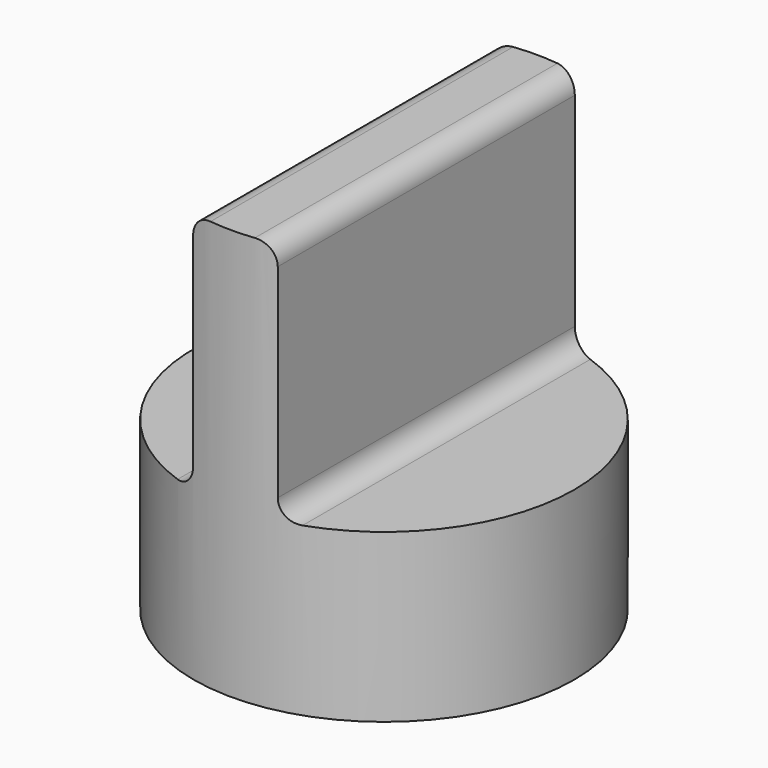
from build123d import *

# Parameters (mm, degrees)
SKETCH_R        = 9.45
PAD_DEPTH       = 20.4
POCKET_DEPTH    = 12.1
FILLET_R        = 1
POCKET001_DEPTH = 5.3


with BuildPart() as part:
    # Sketch → Pad (new body)
    with BuildSketch(Plane.XY):
        Circle(SKETCH_R)
    extrude(amount=PAD_DEPTH)

    # Sketch001 (on Face3 of Pad) → Pocket (cut)
    with BuildSketch(Plane.XY.offset(20.4)):
        with BuildLine():
            ThreePointArc((-2.100006, 9.213711), (-9.45, 0), (-2.100006, -9.213711))
            Line((-2.100006, 9.213711), (-2.100006, -9.213711))
        make_face()
        with BuildLine():
            ThreePointArc((2.099994, -9.213714), (9.45, 0), (2.099994, 9.213714))
            Line((2.099994, -9.213714), (2.099994, 9.213714))
        make_face()
    extrude(amount=-POCKET_DEPTH, mode=Mode.SUBTRACT)

    # Fillet
    fillet_edges = [part.edges().sort_by_distance(p)[0] for p in [
        (2.099994, 0, 20.4),
        (-2.100006, 0, 20.4),
        (2.099994, 0, 8.3),
        (-2.100006, 0, 8.3),
    ]]
    fillet(fillet_edges, radius=FILLET_R)

    # Sketch002 (on Face5 of Fillet) → Pocket001 (cut)
    with BuildSketch(Plane(origin=(0, 0, 0), x_dir=(1, 0, 0), z_dir=(0, 0, -1))):
        Polygon((-3.723909, 6.45), (-7.447818, 0), (-3.723909, -6.45), (3.723909, -6.45), (7.447818, 0), (3.723909, 6.45), align=None)
    extrude(amount=-POCKET001_DEPTH, mode=Mode.SUBTRACT)


solid = part.part
